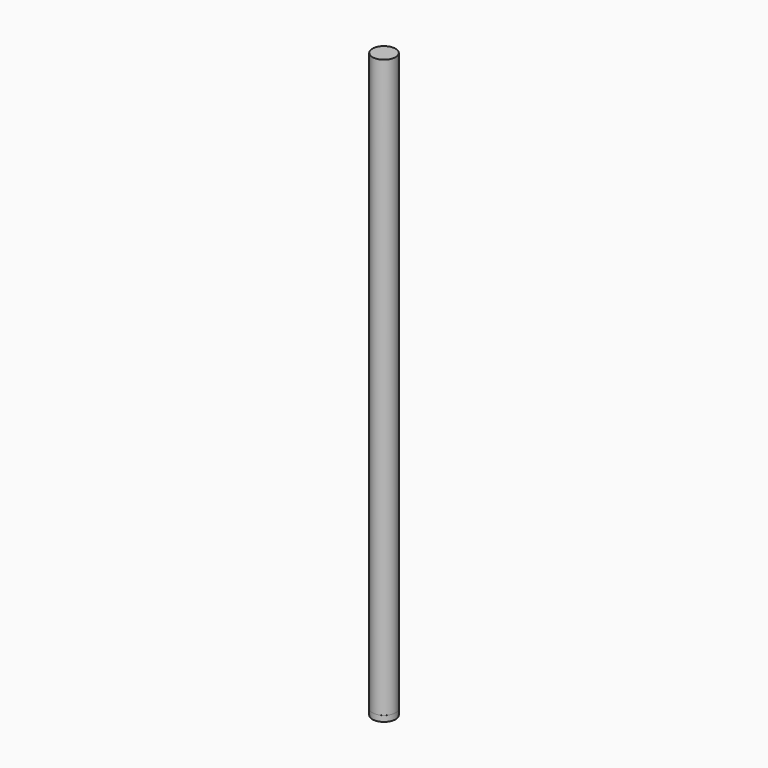
from build123d import *

# Parameters (mm, degrees)
F0_R     = 4
F1_DEPTH = 200


with BuildPart() as f1:
    # F0 (on Top) → F1 (new body)
    with BuildSketch(Plane.XY):
        Circle(F0_R)
    extrude(amount=F1_DEPTH)


with BuildPart() as f3:
    # F2 (on Right) → F3 (revolve)
    with BuildSketch(Plane.YZ):
        Polygon((-3.068931, -0.5), (-4.011301, 0), (-4.011301, -2), (-3.068931, -1.5), align=None)
    revolve(axis=Axis((0, 0, 0), (0, 0, 1)))


solid = Compound([f1.part, f3.part])
